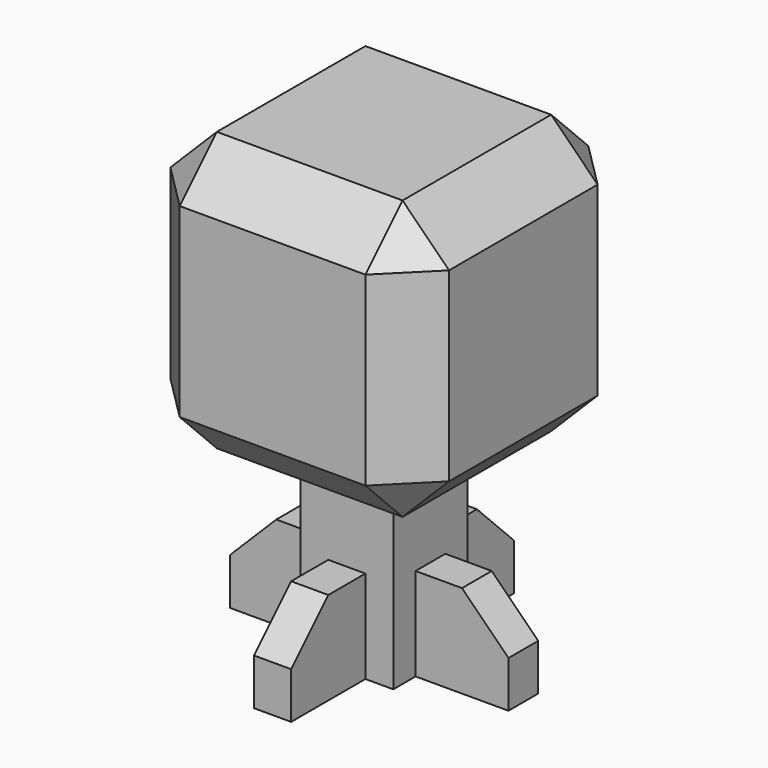
from build123d import *

# Parameters (mm, degrees)
F0_W          = 25.4
F0_H          = 25.4
F1_DEPTH      = 50.8
F3_W          = 76.2
F3_H          = 76.2
F4_DEPTH      = 76.2
F5_SIZE       = 12.7
F6_W          = 25.4
F6_H          = 25.4
F7_DEPTH      = 5.08
F7_DEPTH_BACK = 5.08
F9_COUNT      = 4
F10_SIZE      = 12.7


with BuildPart() as f1:
    # F0 (on Top) → F1 (new body)
    with BuildSketch(Plane.XY):
        Rectangle(F0_W, F0_H)
    extrude(amount=F1_DEPTH)

    # F3 (on offset) → F4 (join)
    with BuildSketch(Plane.XY.offset(50.8)):
        Rectangle(F3_W, F3_H)
    extrude(amount=F4_DEPTH)

    # F5
    f5_edges = [f1.edges().sort_by_distance(p)[0] for p in [
        (38.1, -38.1, 88.9),
        (38.1, 38.1, 88.9),
        (-38.1, 38.1, 88.9),
        (-38.1, -38.1, 88.9),
        (0, -38.1, 127),
        (38.1, 0, 127),
        (0, 38.1, 127),
        (-38.1, 0, 127),
        (0, 38.1, 50.8),
        (38.1, 0, 50.8),
        (0, -38.1, 50.8),
        (-38.1, 0, 50.8),
    ]]
    chamfer(f5_edges, length=F5_SIZE)

    # F6 (on Right) → F7 (join, two sides)
    with BuildSketch(Plane.YZ) as f7_sk:
        with Locations((-25.4, 12.7)):
            Rectangle(F6_W, F6_H)
    extrude(amount=F7_DEPTH)
    extrude(f7_sk.sketch, amount=-F7_DEPTH_BACK)

    # F10
    f10_edges = [f1.edges().sort_by_distance(p)[0] for p in [
        (0, -38.1, 25.4),
    ]]
    chamfer(f10_edges, length=F10_SIZE)


with BuildPart() as f9_1:
    # F9: instance of F1
    add(f1.part.rotate(Axis((0, 0, -16.514363), (0, 0, -1)), 1 * 360 / F9_COUNT))


with BuildPart() as f9_2:
    # F9: instance of F1
    add(f1.part.rotate(Axis((0, 0, -16.514363), (0, 0, -1)), 2 * 360 / F9_COUNT))


with BuildPart() as f9_3:
    # F9: instance of F1
    add(f1.part.rotate(Axis((0, 0, -16.514363), (0, 0, -1)), 3 * 360 / F9_COUNT))


solid = Compound([f1.part, f9_1.part, f9_2.part, f9_3.part])
